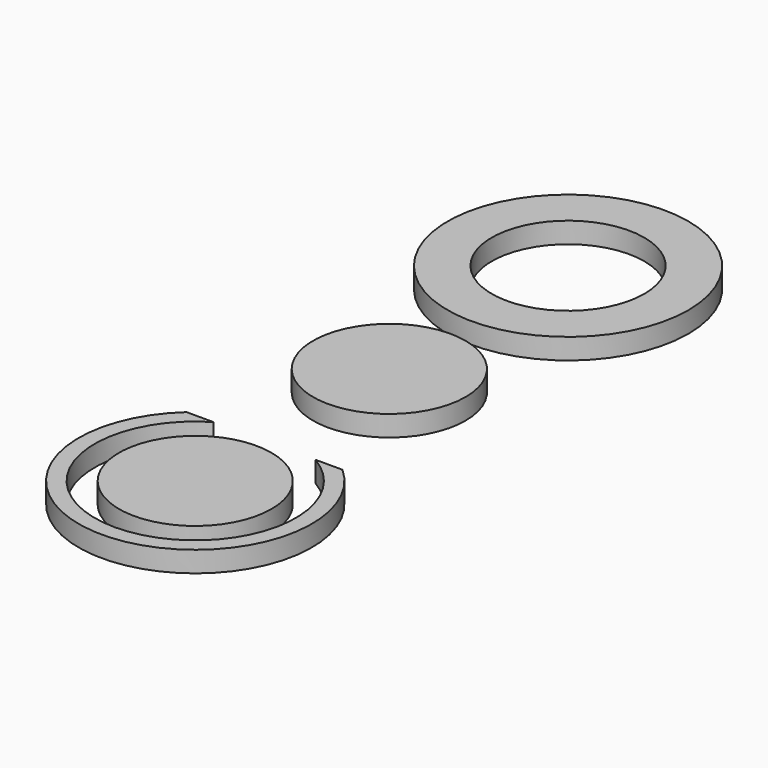
from build123d import *

# Parameters (mm, degrees)
F0_R     = 11
F0_R_2   = 17.366992
F1_DEPTH = 3


with BuildPart() as f1:
    # F0 (on Top) → F1 (new body)
    with BuildSketch(Plane.XY):
        with BuildLine():
            ThreePointArc((-11, 0), (0, -11), (11, 0))
            ThreePointArc((11, 0), (0, 11), (-11, 0))
        make_face()
        with BuildLine():
            Line((11.253884, -22.507805), (7.36173, -22.507805))
            ThreePointArc((7.36173, -22.507805), (0, -49.5), (-7.36173, -22.507805))
            Line((-7.36173, -22.507805), (-11.253884, -22.507805))
            ThreePointArc((-11.253884, -22.507805), (0, -51.813829), (11.253884, -22.507805))
        make_face()
        with Locations((0, -35)):
            Circle(F0_R)
        with Locations((0, 32.232616)):
            Circle(F0_R_2)
        with Locations((0, 32.232616)):
            Circle(F0_R, mode=Mode.SUBTRACT)
    extrude(amount=F1_DEPTH)


solid = f1.part
